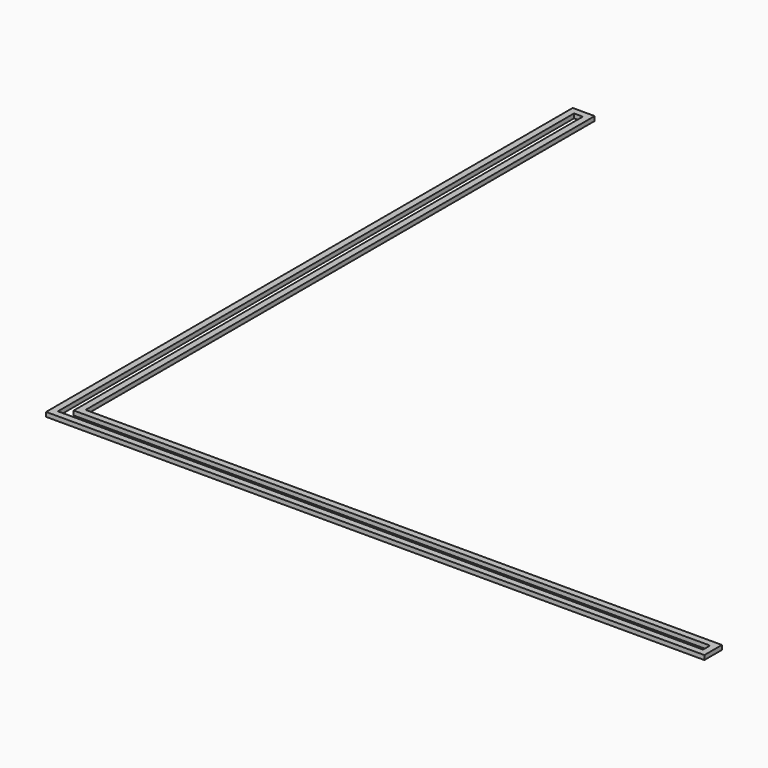
from build123d import *

# Parameters (mm, degrees)
F1_DEPTH = 2


with BuildPart() as f1:
    # F0 (on Top) → F1 (new body)
    with BuildSketch(Plane.XY):
        Polygon((0, 10), (0, 0), (10, 0), (300, 0), (300, 10), (10, 10), (10, 300), (0, 300), align=None)
        Polygon((7, 297), (7, 7), (297, 7), (297, 3), (3, 3), (3, 297), align=None, mode=Mode.SUBTRACT)
    extrude(amount=F1_DEPTH)


solid = f1.part
